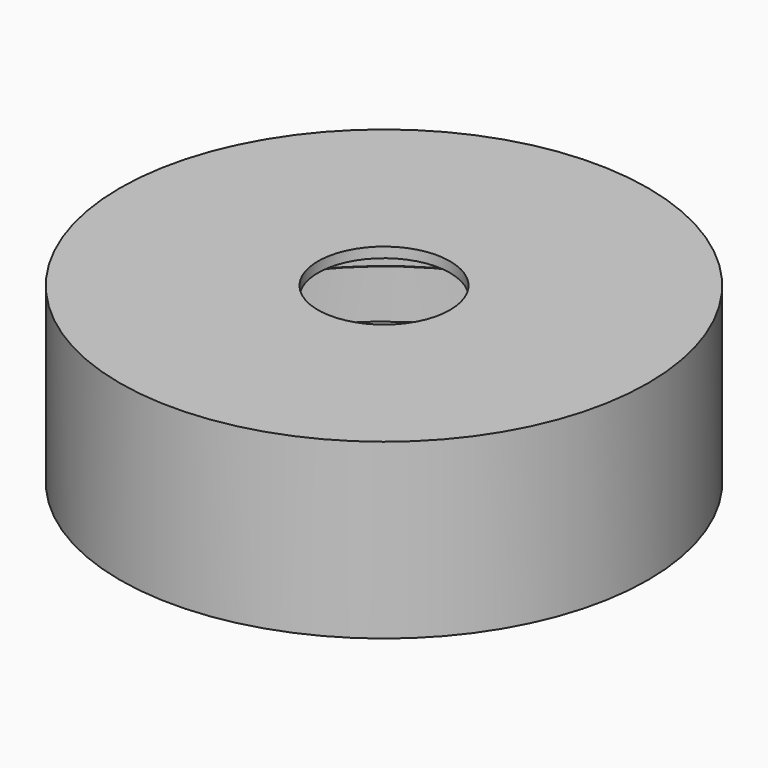
from build123d import *

# Parameters (mm, degrees)
F0_R     = 19.31
F1_DEPTH = 16.68
F0_R_2   = 77.225
F2_DEPTH = 50.66
F3_T     = -2.5
F4_R     = 75
F5_DEPTH = 30.98


with BuildPart() as f1:
    # F0 (on Top) → F1 (new body)
    with BuildSketch(Plane.XY):
        Circle(F0_R)
    extrude(amount=F1_DEPTH)

    # F0 (on Top) → F2 (join)
    with BuildSketch(Plane.XY):
        Circle(F0_R_2)
        Circle(F0_R, mode=Mode.SUBTRACT)
    extrude(amount=F2_DEPTH)

    # F3 (hollow: no face is removed)
    offset(amount=F3_T, kind=Kind.INTERSECTION, mode=Mode.SUBTRACT)

    # F4 (on face) → F5 (cut)
    with BuildSketch(Plane.XY.offset(16.68)):
        Circle(F4_R)
    extrude(amount=F5_DEPTH, mode=Mode.SUBTRACT)


solid = f1.part
